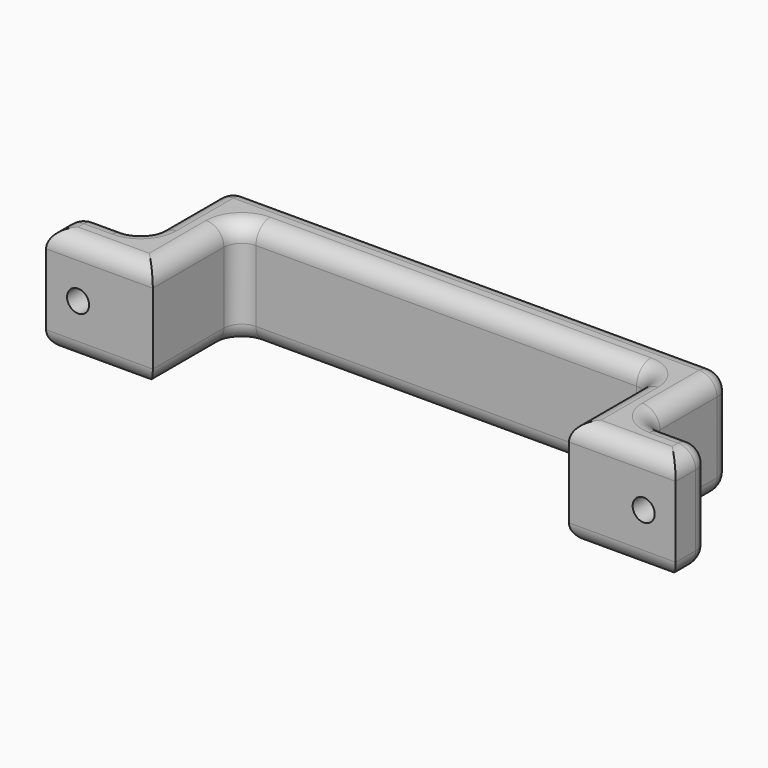
from build123d import *

# Parameters (mm, degrees)
F1_DEPTH = 30
F2_R     = 5
F3_R     = 3.1
F4_DEPTH = 25


with BuildPart() as f1:
    # F0 (on Top) → F1 (new body)
    with BuildSketch(Plane.XY):
        Polygon((-88.5, 12), (-88.5, 0), (-58.5, 0), (-58.5, 30), (58.5, 30), (58.5, 0), (88.5, 0), (88.5, 12), (70.5, 12), (70.5, 42), (-70.5, 42), (-70.5, 12), align=None)
    extrude(amount=F1_DEPTH)

    # F2
    f2_edges = [f1.edges().sort_by_distance(p)[0] for p in [
        (70.5, 42, 15),
        (-70.5, 42, 15),
        (0, 42, 0),
        (0, 42, 30),
        (-88.5, 6, 30),
        (-73.5, 0, 30),
        (-58.5, 15, 30),
        (0, 30, 30),
        (58.5, 15, 30),
        (73.5, 0, 30),
        (88.5, 6, 30),
        (79.5, 12, 30),
        (70.5, 27, 30),
        (-70.5, 27, 30),
        (-79.5, 12, 30),
        (-88.5, 6, 0),
        (-73.5, 0, 0),
        (-58.5, 15, 0),
        (0, 30, 0),
        (58.5, 15, 0),
        (73.5, 0, 0),
        (88.5, 6, 0),
        (79.5, 12, 0),
        (70.5, 27, 0),
        (-70.5, 27, 0),
        (-79.5, 12, 0),
        (70.5, 12, 15),
        (-70.5, 12, 15),
        (-58.5, 30, 15),
        (58.5, 30, 15),
        (-88.5, 12, 15),
        (88.5, 12, 15),
    ]]
    fillet(f2_edges, radius=F2_R)

    # F3 (on face) → F4 (cut)
    with BuildSketch(Plane.XZ):
        with Locations((79.5, 15)):
            Circle(F3_R)
        with Locations((-79.5, 15)):
            Circle(F3_R)
    extrude(amount=-F4_DEPTH, mode=Mode.SUBTRACT)


solid = f1.part
